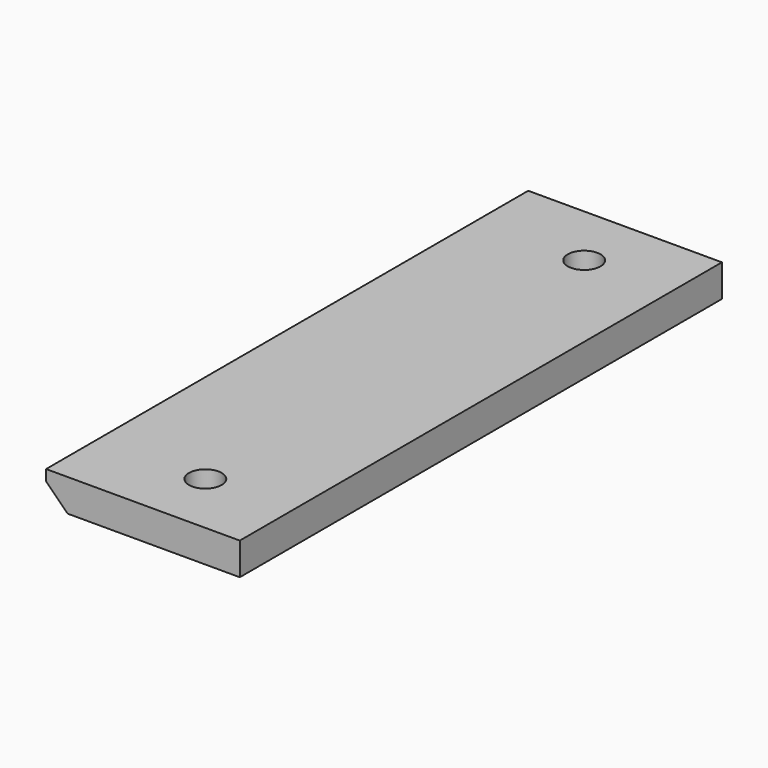
from build123d import *

# Parameters (mm, degrees)
F0_DEPTH       = 44.45
F1_D           = 4.826
F1_CBORE_D     = 8.73125
F1_CBORE_DEPTH = 1.5875


with BuildPart() as f0:
    # F2 (on Front) → F0 (new body, symmetric)
    with BuildSketch(Plane.XZ):
        Polygon((14.2875, 2.38125), (-14.2875, 2.38125), (-14.2875, 0.79375), (-11.1125, -2.38125), (14.2875, -2.38125), align=None)
    extrude(amount=F0_DEPTH, both=True)

    # F1 (through all)
    with Locations(Plane(origin=(0, 0, -2.38125), x_dir=(1, 0, 0), z_dir=(0, 0, -1))):
        with Locations((1.5875, 34.925), (1.5875, -34.925)):
            CounterBoreHole(F1_D / 2, F1_CBORE_D / 2, F1_CBORE_DEPTH)


solid = f0.part
